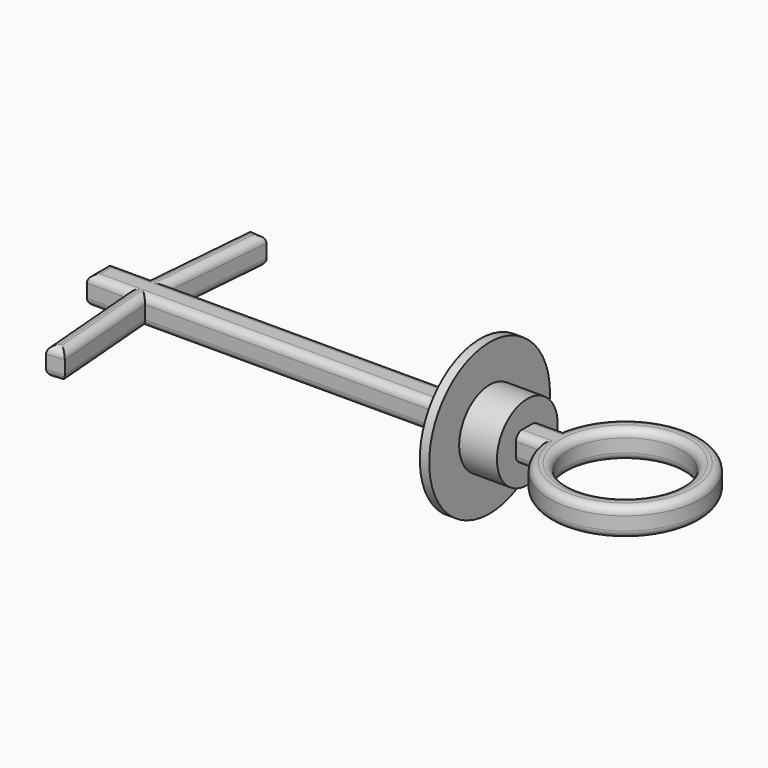
from build123d import *

# Parameters (mm, degrees)
F0_R     = 19.05
F1_DEPTH = 9.525
F2_R     = 2.54
F4_R     = 25.4
F4_R_2   = 16.26902
F5_DEPTH = 3.175
F6_R     = 12.784879
F7_DEPTH = 12.7


with BuildPart() as f1:
    # F0 (on Top) → F1 (new body)
    with BuildSketch(Plane.XY):
        with BuildLine():
            Line((-83.518586, -4.7625), (49.272146, -4.7625))
            ThreePointArc((49.272146, -4.7625), (99.621666, 0), (49.272146, 4.7625))
            Line((49.272146, 4.7625), (-83.518586, 4.7625))
            Line((-83.518586, 4.7625), (-80.384782, 42.441457))
            Line((-80.384782, 42.441457), (-86.286046, 42.932272))
            Line((-86.286046, 42.932272), (-89.460671, 4.7625))
            Line((-89.460671, 4.7625), (-103.127854, 4.7625))
            Line((-103.127854, 4.7625), (-103.127854, -4.7625))
            Line((-103.127854, -4.7625), (-89.460671, -4.7625))
            Line((-89.460671, -4.7625), (-86.286046, -42.932272))
            Line((-86.286046, -42.932272), (-80.384782, -42.441457))
            Line((-80.384782, -42.441457), (-83.518586, -4.7625))
        make_face()
        with Locations((74.221666, 0)):
            Circle(F0_R, mode=Mode.SUBTRACT)
    extrude(amount=F1_DEPTH)

    # F2
    f2_edges = [f1.edges().sort_by_distance(p)[0] for p in [
        (-17.12322, -4.7625, 9.525),
        (99.621666, 0, 9.525),
        (-17.12322, 4.7625, 9.525),
        (-81.951684, 23.601978, 9.525),
        (-83.335414, 42.686864, 9.525),
        (-87.873358, 23.847386, 9.525),
        (-96.294263, 4.7625, 9.525),
        (-103.127854, 0, 9.525),
        (-96.294263, -4.7625, 9.525),
        (-87.873358, -23.847386, 9.525),
        (-83.335414, -42.686864, 9.525),
        (-81.951684, -23.601978, 9.525),
        (55.171666, 0, 9.525),
        (-17.12322, -4.7625, 0),
        (99.621666, 0, 0),
        (-17.12322, 4.7625, 0),
        (-81.951684, 23.601978, 0),
        (-83.335414, 42.686864, 0),
        (-87.873358, 23.847386, 0),
        (-96.294263, 4.7625, 0),
        (-103.127854, 0, 0),
        (-96.294263, -4.7625, 0),
        (-87.873358, -23.847386, 0),
        (-83.335414, -42.686864, 0),
        (-81.951684, -23.601978, 0),
        (55.171666, 0, 0),
    ]]
    fillet(f2_edges, radius=F2_R)

    # F4 (on offset) → F5 (join)
    with BuildSketch(Plane.YZ.offset(25.4)):
        with Locations((0, 4.989178)):
            Circle(F4_R)
        with Locations((0, 4.989178)):
            Circle(F4_R_2, mode=Mode.SUBTRACT)
        with Locations((0, 4.989178)):
            Circle(F4_R_2)
    extrude(amount=F5_DEPTH)

    # F6 (on face) → F7 (join)
    with BuildSketch(Plane.YZ.offset(28.575)):
        with Locations((0, 4.989178)):
            Circle(F6_R)
        with BuildLine():
            ThreePointArc((-2.2225, 0), (-4.018551, 0.743949), (-4.7625, 2.54))
            Line((-4.7625, 2.54), (-4.7625, 6.985))
            ThreePointArc((-4.7625, 6.985), (-4.018551, 8.781051), (-2.2225, 9.525))
            Line((-2.2225, 9.525), (2.2225, 9.525))
            ThreePointArc((2.2225, 9.525), (4.018551, 8.781051), (4.7625, 6.985))
            Line((4.7625, 6.985), (4.7625, 2.54))
            ThreePointArc((4.7625, 2.54), (4.018551, 0.743949), (2.2225, 0))
            Line((2.2225, 0), (-2.2225, 0))
        make_face(mode=Mode.SUBTRACT)
    extrude(amount=F7_DEPTH)


solid = f1.part
